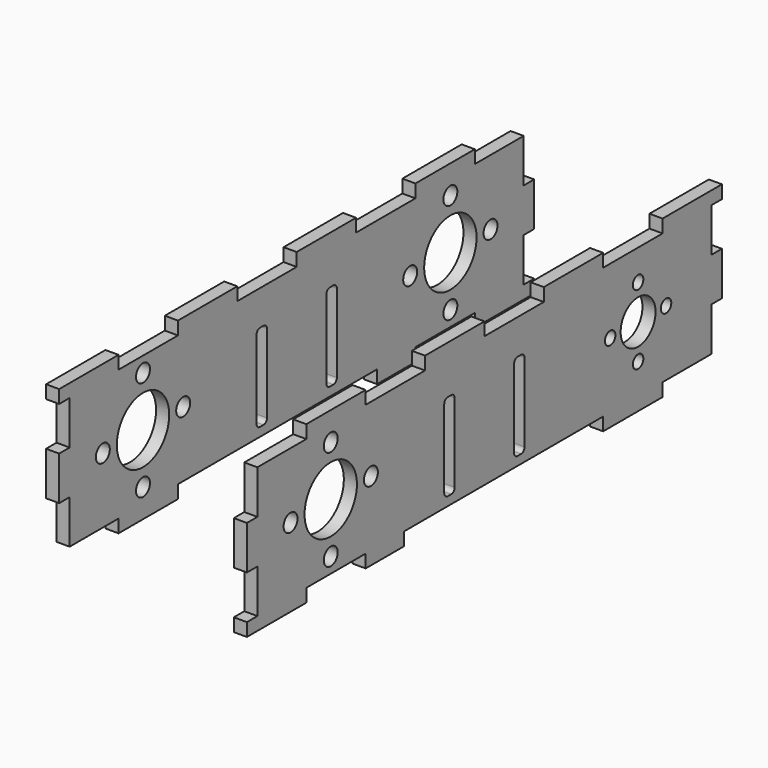
from build123d import *

# Parameters (mm, degrees)
RECTANGLE177_W           = 3
RECTANGLE177_H           = 10
EXTRUDE230_DEPTH         = 3
EXTRUDE233_DEPTH         = 3
EXTRUDE232_DEPTH         = 3
EXTRUDE231_DEPTH         = 3
RECTANGLE170_W           = 17
RECTANGLE170_H           = 3
EXTRUDE223_DEPTH         = 3
RECTANGLE171_W           = 17
RECTANGLE171_H           = 3
EXTRUDE224_DEPTH         = 3
RECTANGLE172_W           = 17
RECTANGLE172_H           = 3
EXTRUDE225_DEPTH         = 3
RECTANGLE169_W           = 17
RECTANGLE169_H           = 3
EXTRUDE222_DEPTH         = 3
RECTANGLE174_W           = 17
RECTANGLE174_H           = 3
EXTRUDE227_DEPTH         = 3
RECTANGLE175_W           = 17
RECTANGLE175_H           = 3
EXTRUDE228_DEPTH         = 3
RECTANGLE176_W           = 17
RECTANGLE176_H           = 3
EXTRUDE229_DEPTH         = 3
RECTANGLE173_W           = 17
RECTANGLE173_H           = 3
EXTRUDE226_DEPTH         = 3
BOX050_W                 = 48
BOX050_H                 = 45
BOX050_DEPTH             = 3
BOX051_W                 = 48
BOX051_H                 = 45
BOX051_DEPTH             = 3
RECTANGLE166_W           = 17
RECTANGLE166_H           = 3
EXTRUDE219_DEPTH         = 3
RECTANGLE167_W           = 17
RECTANGLE167_H           = 3
EXTRUDE220_DEPTH         = 3
RECTANGLE168_W           = 17
RECTANGLE168_H           = 3
EXTRUDE221_DEPTH         = 3
RECTANGLE165_W           = 17
RECTANGLE165_H           = 3
EXTRUDE218_DEPTH         = 3
RECTANGLE162_W           = 17
RECTANGLE162_H           = 3
EXTRUDE215_DEPTH         = 3
RECTANGLE163_W           = 17
RECTANGLE163_H           = 3
EXTRUDE216_DEPTH         = 3
RECTANGLE164_W           = 17
RECTANGLE164_H           = 3
EXTRUDE217_DEPTH         = 3
RECTANGLE161_W           = 17
RECTANGLE161_H           = 3
EXTRUDE214_DEPTH         = 3
CYLINDER151_R            = 7.5
CYLINDER151_DEPTH        = 25
CYLINDER151_PITCH_ANGLE  = 90
CYLINDER149_R            = 7.5
CYLINDER149_DEPTH        = 25
CYLINDER149_PITCH_ANGLE  = 90
CYLINDER150_R            = 7.5
CYLINDER150_DEPTH        = 25
CYLINDER150_PITCH_ANGLE  = 90
CYLINDER152_R            = 5
CYLINDER152_DEPTH        = 25
CYLINDER152_PITCH_ANGLE  = 90
CYLINDER143_R            = 2
CYLINDER143_DEPTH        = 10
CYLINDER143_PITCH_ANGLE  = 90
CYLINDER141_R            = 2
CYLINDER141_DEPTH        = 10
CYLINDER141_PITCH_ANGLE  = 90
CYLINDER142_R            = 2
CYLINDER142_DEPTH        = 10
CYLINDER142_PITCH_ANGLE  = 90
CYLINDER144_R            = 2
CYLINDER144_DEPTH        = 10
CYLINDER144_PITCH_ANGLE  = 90
CYLINDER135_R            = 2
CYLINDER135_DEPTH        = 10
CYLINDER135_PITCH_ANGLE  = 90
CYLINDER133_R            = 2
CYLINDER133_DEPTH        = 10
CYLINDER133_PITCH_ANGLE  = 90
CYLINDER134_R            = 2
CYLINDER134_DEPTH        = 10
CYLINDER134_PITCH_ANGLE  = 90
CYLINDER136_R            = 2
CYLINDER136_DEPTH        = 10
CYLINDER136_PITCH_ANGLE  = 90
CYLINDER139_R            = 2
CYLINDER139_DEPTH        = 10
CYLINDER139_PITCH_ANGLE  = 90
CYLINDER137_R            = 2
CYLINDER137_DEPTH        = 10
CYLINDER137_PITCH_ANGLE  = 90
CYLINDER138_R            = 2
CYLINDER138_DEPTH        = 10
CYLINDER138_PITCH_ANGLE  = 90
CYLINDER140_R            = 2
CYLINDER140_DEPTH        = 10
CYLINDER140_PITCH_ANGLE  = 90
CYLINDER145_R            = 1.5
CYLINDER145_DEPTH        = 10
CYLINDER145_PITCH_ANGLE  = 90
CYLINDER146_R            = 1.5
CYLINDER146_DEPTH        = 10
CYLINDER146_PITCH_ANGLE  = 90
CYLINDER147_R            = 1.5
CYLINDER147_DEPTH        = 10
CYLINDER147_PITCH_ANGLE  = 90
CYLINDER148_R            = 1.5
CYLINDER148_DEPTH        = 10
CYLINDER148_PITCH_ANGLE  = 90
BOX004_W                 = 3
BOX004_H                 = 3
BOX004_DEPTH             = 20
FILLET_R                 = 1
BOX005_W                 = 3
BOX005_H                 = 3
BOX005_DEPTH             = 20
FILLET001_R              = 1
BOX003_W                 = 130
BOX003_H                 = 3
BOX003_DEPTH             = 30
CUT007_PLACEMENT_ANGLE   = 90
ARRAY017_COUNT           = 2
ARRAY017_PLACEMENT_ANGLE = 180


with BuildPart() as extrude230:
    # Rectangle177 → Extrude230 (new body)
    with BuildSketch(Plane(origin=(24, -68, 75), x_dir=(0, -1, 0), z_dir=(1, 0, 0))):
        with Locations((-1.5, 5)):
            Rectangle(RECTANGLE177_W, RECTANGLE177_H)
    extrude(amount=-EXTRUDE230_DEPTH)


with BuildPart() as extrude230_1:
    # Extrude230 placement: moved
    add(extrude230.part.moved(Location((-1, 0, 0))))


with BuildPart() as extrude233:
    # Rectangle177 → Extrude233 (new body)
    with BuildSketch(Plane(origin=(24, -68, 75), x_dir=(0, -1, 0), z_dir=(1, 0, 0))):
        with Locations((-1.5, 5)):
            Rectangle(RECTANGLE177_W, RECTANGLE177_H)
    extrude(amount=-EXTRUDE233_DEPTH)


with BuildPart() as extrude233_1:
    # Extrude233 placement: moved
    add(extrude233.part.moved(Location((-44, 133, 0))))


with BuildPart() as extrude232:
    # Rectangle177 → Extrude232 (new body)
    with BuildSketch(Plane(origin=(24, -68, 75), x_dir=(0, -1, 0), z_dir=(1, 0, 0))):
        with Locations((-1.5, 5)):
            Rectangle(RECTANGLE177_W, RECTANGLE177_H)
    extrude(amount=-EXTRUDE232_DEPTH)


with BuildPart() as extrude232_1:
    # Extrude232 placement: moved
    add(extrude232.part.moved(Location((-1, 133, 0))))


with BuildPart() as extrude231:
    # Rectangle177 → Extrude231 (new body)
    with BuildSketch(Plane(origin=(24, -68, 75), x_dir=(0, -1, 0), z_dir=(1, 0, 0))):
        with Locations((-1.5, 5)):
            Rectangle(RECTANGLE177_W, RECTANGLE177_H)
    extrude(amount=-EXTRUDE231_DEPTH)


with BuildPart() as extrude231_1:
    # Extrude231 placement: moved
    add(extrude231.part.moved(Location((-44, 0, 0))))


with BuildPart() as extrude223:
    # Rectangle170 → Extrude223 (new body)
    with BuildSketch(Plane(origin=(24, -34, 88), x_dir=(0, -1, 0), z_dir=(1, 0, 0))):
        with Locations((-8.5, 1.5)):
            Rectangle(RECTANGLE170_W, RECTANGLE170_H)
    extrude(amount=-EXTRUDE223_DEPTH)


with BuildPart() as extrude224:
    # Rectangle171 → Extrude224 (new body)
    with BuildSketch(Plane(origin=(24, 0, 88), x_dir=(0, -1, 0), z_dir=(1, 0, 0))):
        with Locations((-8.5, 1.5)):
            Rectangle(RECTANGLE171_W, RECTANGLE171_H)
    extrude(amount=-EXTRUDE224_DEPTH)


with BuildPart() as extrude225:
    # Rectangle172 → Extrude225 (new body)
    with BuildSketch(Plane(origin=(24, 34, 88), x_dir=(0, -1, 0), z_dir=(1, 0, 0))):
        with Locations((-8.5, 1.5)):
            Rectangle(RECTANGLE172_W, RECTANGLE172_H)
    extrude(amount=-EXTRUDE225_DEPTH)


with BuildPart() as finger_joints_a_front004:
    # Rectangle169 → Extrude222 (new body)
    with BuildSketch(Plane(origin=(24, -68, 88), x_dir=(0, -1, 0), z_dir=(1, 0, 0))):
        with Locations((-8.5, 1.5)):
            Rectangle(RECTANGLE169_W, RECTANGLE169_H)
    extrude(amount=-EXTRUDE222_DEPTH)

    # Fusion064067015: union Extrude223, Extrude224, Extrude225
    add(extrude223.part)
    add(extrude224.part)
    add(extrude225.part)


with BuildPart() as finger_joints_a_front004_1:
    # Fusion064067015 placement: moved
    add(finger_joints_a_front004.part.moved(Location((-1, 0, 0))))


with BuildPart() as extrude227:
    # Rectangle174 → Extrude227 (new body)
    with BuildSketch(Plane(origin=(24, -17, 88), x_dir=(0, -1, 0), z_dir=(1, 0, 0))):
        with Locations((-8.5, 1.5)):
            Rectangle(RECTANGLE174_W, RECTANGLE174_H)
    extrude(amount=-EXTRUDE227_DEPTH)


with BuildPart() as extrude228:
    # Rectangle175 → Extrude228 (new body)
    with BuildSketch(Plane(origin=(24, 17, 88), x_dir=(0, -1, 0), z_dir=(1, 0, 0))):
        with Locations((-8.5, 1.5)):
            Rectangle(RECTANGLE175_W, RECTANGLE175_H)
    extrude(amount=-EXTRUDE228_DEPTH)


with BuildPart() as extrude229:
    # Rectangle176 → Extrude229 (new body)
    with BuildSketch(Plane(origin=(24, 51, 88), x_dir=(0, -1, 0), z_dir=(1, 0, 0))):
        with Locations((-8.5, 1.5)):
            Rectangle(RECTANGLE176_W, RECTANGLE176_H)
    extrude(amount=-EXTRUDE229_DEPTH)


with BuildPart() as finger_joints_b004:
    # Rectangle173 → Extrude226 (new body)
    with BuildSketch(Plane(origin=(24, -51, 88), x_dir=(0, -1, 0), z_dir=(1, 0, 0))):
        with Locations((-8.5, 1.5)):
            Rectangle(RECTANGLE173_W, RECTANGLE173_H)
    extrude(amount=-EXTRUDE226_DEPTH)

    # Fusion064067016: union Extrude227, Extrude228, Extrude229
    add(extrude227.part)
    add(extrude228.part)
    add(extrude229.part)


with BuildPart() as finger_joints_b004_1:
    # Fusion064067016 placement: moved
    add(finger_joints_b004.part.moved(Location((-44, 0, 0))))

    # Fusion064067017: union Finger joints A front004
    add(finger_joints_a_front004_1.part)


with BuildPart() as finger_joints_b004_2:
    # Fusion064067017 placement: moved
    add(finger_joints_b004_1.part.moved(Location((0, 0, -33))))


with BuildPart() as obj1:
    # Box050 → Box050 (new body)
    with BuildSketch(Plane(origin=(-24, -68, 52), x_dir=(1, 0, 0), z_dir=(0, 0, 1))):
        with Locations((24, 22.5)):
            Rectangle(BOX050_W, BOX050_H)
    extrude(amount=BOX050_DEPTH)


with BuildPart() as common002:
    # Box051 → Box051 (new body)
    with BuildSketch(Plane(origin=(-24, 23, 52), x_dir=(1, 0, 0), z_dir=(0, 0, 1))):
        with Locations((24, 22.5)):
            Rectangle(BOX051_W, BOX051_H)
    extrude(amount=BOX051_DEPTH)

    # Fusion064067018: union obj1
    add(obj1.part)

    # Common002: intersect Finger joints B004
    add(finger_joints_b004_2.part, mode=Mode.INTERSECT)


with BuildPart() as extrude219:
    # Rectangle166 → Extrude219 (new body)
    with BuildSketch(Plane(origin=(24, -34, 88), x_dir=(0, -1, 0), z_dir=(1, 0, 0))):
        with Locations((-8.5, 1.5)):
            Rectangle(RECTANGLE166_W, RECTANGLE166_H)
    extrude(amount=-EXTRUDE219_DEPTH)


with BuildPart() as extrude220:
    # Rectangle167 → Extrude220 (new body)
    with BuildSketch(Plane(origin=(24, 0, 88), x_dir=(0, -1, 0), z_dir=(1, 0, 0))):
        with Locations((-8.5, 1.5)):
            Rectangle(RECTANGLE167_W, RECTANGLE167_H)
    extrude(amount=-EXTRUDE220_DEPTH)


with BuildPart() as extrude221:
    # Rectangle168 → Extrude221 (new body)
    with BuildSketch(Plane(origin=(24, 34, 88), x_dir=(0, -1, 0), z_dir=(1, 0, 0))):
        with Locations((-8.5, 1.5)):
            Rectangle(RECTANGLE168_W, RECTANGLE168_H)
    extrude(amount=-EXTRUDE221_DEPTH)


with BuildPart() as finger_joints_a_rear002:
    # Rectangle165 → Extrude218 (new body)
    with BuildSketch(Plane(origin=(24, -68, 88), x_dir=(0, -1, 0), z_dir=(1, 0, 0))):
        with Locations((-8.5, 1.5)):
            Rectangle(RECTANGLE165_W, RECTANGLE165_H)
    extrude(amount=-EXTRUDE218_DEPTH)

    # Fusion064067012: union Extrude219, Extrude220, Extrude221
    add(extrude219.part)
    add(extrude220.part)
    add(extrude221.part)


with BuildPart() as finger_joints_a_rear002_1:
    # Fusion064067012 placement: moved
    add(finger_joints_a_rear002.part.moved(Location((-44, 0, 0))))


with BuildPart() as extrude215:
    # Rectangle162 → Extrude215 (new body)
    with BuildSketch(Plane(origin=(24, -17, 88), x_dir=(0, -1, 0), z_dir=(1, 0, 0))):
        with Locations((-8.5, 1.5)):
            Rectangle(RECTANGLE162_W, RECTANGLE162_H)
    extrude(amount=-EXTRUDE215_DEPTH)


with BuildPart() as extrude216:
    # Rectangle163 → Extrude216 (new body)
    with BuildSketch(Plane(origin=(24, 17, 88), x_dir=(0, -1, 0), z_dir=(1, 0, 0))):
        with Locations((-8.5, 1.5)):
            Rectangle(RECTANGLE163_W, RECTANGLE163_H)
    extrude(amount=-EXTRUDE216_DEPTH)


with BuildPart() as extrude217:
    # Rectangle164 → Extrude217 (new body)
    with BuildSketch(Plane(origin=(24, 51, 88), x_dir=(0, -1, 0), z_dir=(1, 0, 0))):
        with Locations((-8.5, 1.5)):
            Rectangle(RECTANGLE164_W, RECTANGLE164_H)
    extrude(amount=-EXTRUDE217_DEPTH)


with BuildPart() as finger_joints_a002:
    # Rectangle161 → Extrude214 (new body)
    with BuildSketch(Plane(origin=(24, -51, 88), x_dir=(0, -1, 0), z_dir=(1, 0, 0))):
        with Locations((-8.5, 1.5)):
            Rectangle(RECTANGLE161_W, RECTANGLE161_H)
    extrude(amount=-EXTRUDE214_DEPTH)

    # Fusion064067011: union Extrude215, Extrude216, Extrude217
    add(extrude215.part)
    add(extrude216.part)
    add(extrude217.part)


with BuildPart() as finger_joints_a002_1:
    # Fusion064067011 placement: moved
    add(finger_joints_a002.part.moved(Location((-1, 0, 0))))

    # Fusion064067013: union Finger joints A Rear002
    add(finger_joints_a_rear002_1.part)


with BuildPart() as borehole005:
    # Cylinder151 → Cylinder151 (new body)
    with BuildSketch(Plane.XY):
        Circle(CYLINDER151_R)
    extrude(amount=CYLINDER151_DEPTH)


with BuildPart() as borehole005_1:
    # Cylinder151 pitch: moved
    add(borehole005.part.rotate(Axis((0, 0, 0), (0, 1, 0)), CYLINDER151_PITCH_ANGLE))


with BuildPart() as borehole005_2:
    # Cylinder151 placement: moved
    add(borehole005_1.part.moved(Location((10, -44, 70))))


with BuildPart() as borehole003:
    # Cylinder149 → Cylinder149 (new body)
    with BuildSketch(Plane.XY):
        Circle(CYLINDER149_R)
    extrude(amount=CYLINDER149_DEPTH)


with BuildPart() as borehole003_1:
    # Cylinder149 pitch: moved
    add(borehole003.part.rotate(Axis((0, 0, 0), (0, 1, 0)), CYLINDER149_PITCH_ANGLE))


with BuildPart() as borehole003_2:
    # Cylinder149 placement: moved
    add(borehole003_1.part.moved(Location((-36.0062, 44, 70))))


with BuildPart() as boreholes_for_linear_bearings001:
    # Cylinder150 → Cylinder150 (new body)
    with BuildSketch(Plane.XY):
        Circle(CYLINDER150_R)
    extrude(amount=CYLINDER150_DEPTH)


with BuildPart() as boreholes_for_linear_bearings001_1:
    # Cylinder150 pitch: moved
    add(boreholes_for_linear_bearings001.part.rotate(Axis((0, 0, 0), (0, 1, 0)), CYLINDER150_PITCH_ANGLE))


with BuildPart() as boreholes_for_linear_bearings001_2:
    # Cylinder150 placement: moved
    add(boreholes_for_linear_bearings001_1.part.moved(Location((-36.0062, -44, 70))))

    # Fusion064067009: union Borehole005, Borehole003
    add(borehole005_2.part)
    add(borehole003_2.part)


with BuildPart() as boreholes_for_bearings001:
    # Cylinder152 → Cylinder152 (new body)
    with BuildSketch(Plane.XY):
        Circle(CYLINDER152_R)
    extrude(amount=CYLINDER152_DEPTH)


with BuildPart() as boreholes_for_bearings001_1:
    # Cylinder152 pitch: moved
    add(boreholes_for_bearings001.part.rotate(Axis((0, 0, 0), (0, 1, 0)), CYLINDER152_PITCH_ANGLE))


with BuildPart() as boreholes_for_bearings001_2:
    # Cylinder152 placement: moved
    add(boreholes_for_bearings001_1.part.moved(Location((10, 44, 70))))

    # Fusion064067010: union Boreholes for linear bearings001
    add(boreholes_for_linear_bearings001_2.part)


with BuildPart() as cylinder185:
    # Cylinder143 → Cylinder143 (new body)
    with BuildSketch(Plane.XY):
        Circle(CYLINDER143_R)
    extrude(amount=CYLINDER143_DEPTH)


with BuildPart() as cylinder185_1:
    # Cylinder143 pitch: moved
    add(cylinder185.part.rotate(Axis((0, 0, 0), (0, 1, 0)), CYLINDER143_PITCH_ANGLE))


with BuildPart() as cylinder185_2:
    # Cylinder143 placement: moved
    add(cylinder185_1.part.moved(Location((-29, -55.5, 70))))


with BuildPart() as cylinder183:
    # Cylinder141 → Cylinder141 (new body)
    with BuildSketch(Plane.XY):
        Circle(CYLINDER141_R)
    extrude(amount=CYLINDER141_DEPTH)


with BuildPart() as cylinder183_1:
    # Cylinder141 pitch: moved
    add(cylinder183.part.rotate(Axis((0, 0, 0), (0, 1, 0)), CYLINDER141_PITCH_ANGLE))


with BuildPart() as cylinder183_2:
    # Cylinder141 placement: moved
    add(cylinder183_1.part.moved(Location((-29, -44, 81.5))))


with BuildPart() as cylinder184:
    # Cylinder142 → Cylinder142 (new body)
    with BuildSketch(Plane.XY):
        Circle(CYLINDER142_R)
    extrude(amount=CYLINDER142_DEPTH)


with BuildPart() as cylinder184_1:
    # Cylinder142 pitch: moved
    add(cylinder184.part.rotate(Axis((0, 0, 0), (0, 1, 0)), CYLINDER142_PITCH_ANGLE))


with BuildPart() as cylinder184_2:
    # Cylinder142 placement: moved
    add(cylinder184_1.part.moved(Location((-29, -44, 58.5))))


with BuildPart() as screw_holes007:
    # Cylinder144 → Cylinder144 (new body)
    with BuildSketch(Plane.XY):
        Circle(CYLINDER144_R)
    extrude(amount=CYLINDER144_DEPTH)


with BuildPart() as screw_holes007_1:
    # Cylinder144 pitch: moved
    add(screw_holes007.part.rotate(Axis((0, 0, 0), (0, 1, 0)), CYLINDER144_PITCH_ANGLE))


with BuildPart() as screw_holes007_2:
    # Cylinder144 placement: moved
    add(screw_holes007_1.part.moved(Location((-29, -32.5, 70))))

    # Fusion064067005: union Cylinder185, Cylinder183, Cylinder184
    add(cylinder185_2.part)
    add(cylinder183_2.part)
    add(cylinder184_2.part)


with BuildPart() as screw_holes007_3:
    # Fusion064067005 placement: moved
    add(screw_holes007_2.part.moved(Location((49, 0, 0))))


with BuildPart() as cylinder177:
    # Cylinder135 → Cylinder135 (new body)
    with BuildSketch(Plane.XY):
        Circle(CYLINDER135_R)
    extrude(amount=CYLINDER135_DEPTH)


with BuildPart() as cylinder177_1:
    # Cylinder135 pitch: moved
    add(cylinder177.part.rotate(Axis((0, 0, 0), (0, 1, 0)), CYLINDER135_PITCH_ANGLE))


with BuildPart() as cylinder177_2:
    # Cylinder135 placement: moved
    add(cylinder177_1.part.moved(Location((-29, -55.5, 70))))


with BuildPart() as cylinder175:
    # Cylinder133 → Cylinder133 (new body)
    with BuildSketch(Plane.XY):
        Circle(CYLINDER133_R)
    extrude(amount=CYLINDER133_DEPTH)


with BuildPart() as cylinder175_1:
    # Cylinder133 pitch: moved
    add(cylinder175.part.rotate(Axis((0, 0, 0), (0, 1, 0)), CYLINDER133_PITCH_ANGLE))


with BuildPart() as cylinder175_2:
    # Cylinder133 placement: moved
    add(cylinder175_1.part.moved(Location((-29, -44, 81.5))))


with BuildPart() as cylinder176:
    # Cylinder134 → Cylinder134 (new body)
    with BuildSketch(Plane.XY):
        Circle(CYLINDER134_R)
    extrude(amount=CYLINDER134_DEPTH)


with BuildPart() as cylinder176_1:
    # Cylinder134 pitch: moved
    add(cylinder176.part.rotate(Axis((0, 0, 0), (0, 1, 0)), CYLINDER134_PITCH_ANGLE))


with BuildPart() as cylinder176_2:
    # Cylinder134 placement: moved
    add(cylinder176_1.part.moved(Location((-29, -44, 58.5))))


with BuildPart() as screw_holes005:
    # Cylinder136 → Cylinder136 (new body)
    with BuildSketch(Plane.XY):
        Circle(CYLINDER136_R)
    extrude(amount=CYLINDER136_DEPTH)


with BuildPart() as screw_holes005_1:
    # Cylinder136 pitch: moved
    add(screw_holes005.part.rotate(Axis((0, 0, 0), (0, 1, 0)), CYLINDER136_PITCH_ANGLE))


with BuildPart() as screw_holes005_2:
    # Cylinder136 placement: moved
    add(screw_holes005_1.part.moved(Location((-29, -32.5, 70))))

    # Fusion064067003: union Cylinder177, Cylinder175, Cylinder176
    add(cylinder177_2.part)
    add(cylinder175_2.part)
    add(cylinder176_2.part)


with BuildPart() as cylinder181:
    # Cylinder139 → Cylinder139 (new body)
    with BuildSketch(Plane.XY):
        Circle(CYLINDER139_R)
    extrude(amount=CYLINDER139_DEPTH)


with BuildPart() as cylinder181_1:
    # Cylinder139 pitch: moved
    add(cylinder181.part.rotate(Axis((0, 0, 0), (0, 1, 0)), CYLINDER139_PITCH_ANGLE))


with BuildPart() as cylinder181_2:
    # Cylinder139 placement: moved
    add(cylinder181_1.part.moved(Location((-29, -55.5, 70))))


with BuildPart() as cylinder179:
    # Cylinder137 → Cylinder137 (new body)
    with BuildSketch(Plane.XY):
        Circle(CYLINDER137_R)
    extrude(amount=CYLINDER137_DEPTH)


with BuildPart() as cylinder179_1:
    # Cylinder137 pitch: moved
    add(cylinder179.part.rotate(Axis((0, 0, 0), (0, 1, 0)), CYLINDER137_PITCH_ANGLE))


with BuildPart() as cylinder179_2:
    # Cylinder137 placement: moved
    add(cylinder179_1.part.moved(Location((-29, -44, 81.5))))


with BuildPart() as cylinder180:
    # Cylinder138 → Cylinder138 (new body)
    with BuildSketch(Plane.XY):
        Circle(CYLINDER138_R)
    extrude(amount=CYLINDER138_DEPTH)


with BuildPart() as cylinder180_1:
    # Cylinder138 pitch: moved
    add(cylinder180.part.rotate(Axis((0, 0, 0), (0, 1, 0)), CYLINDER138_PITCH_ANGLE))


with BuildPart() as cylinder180_2:
    # Cylinder138 placement: moved
    add(cylinder180_1.part.moved(Location((-29, -44, 58.5))))


with BuildPart() as screw_holes_for_linear_bearings001:
    # Cylinder140 → Cylinder140 (new body)
    with BuildSketch(Plane.XY):
        Circle(CYLINDER140_R)
    extrude(amount=CYLINDER140_DEPTH)


with BuildPart() as screw_holes_for_linear_bearings001_1:
    # Cylinder140 pitch: moved
    add(screw_holes_for_linear_bearings001.part.rotate(Axis((0, 0, 0), (0, 1, 0)), CYLINDER140_PITCH_ANGLE))


with BuildPart() as screw_holes_for_linear_bearings001_2:
    # Cylinder140 placement: moved
    add(screw_holes_for_linear_bearings001_1.part.moved(Location((-29, -32.5, 70))))

    # Fusion064067004: union Cylinder181, Cylinder179, Cylinder180
    add(cylinder181_2.part)
    add(cylinder179_2.part)
    add(cylinder180_2.part)


with BuildPart() as screw_holes_for_linear_bearings001_3:
    # Fusion064067004 placement: moved
    add(screw_holes_for_linear_bearings001_2.part.moved(Location((0, 88, 0))))

    # Fusion064067006: union Screw holes007, Screw holes005
    add(screw_holes007_3.part)
    add(screw_holes005_2.part)


with BuildPart() as cylinder187:
    # Cylinder145 → Cylinder145 (new body)
    with BuildSketch(Plane.XY):
        Circle(CYLINDER145_R)
    extrude(amount=CYLINDER145_DEPTH)


with BuildPart() as cylinder187_1:
    # Cylinder145 pitch: moved
    add(cylinder187.part.rotate(Axis((0, 0, 0), (0, 1, 0)), CYLINDER145_PITCH_ANGLE))


with BuildPart() as cylinder187_2:
    # Cylinder145 placement: moved
    add(cylinder187_1.part.moved(Location((18, 44, 62))))


with BuildPart() as cylinder188:
    # Cylinder146 → Cylinder146 (new body)
    with BuildSketch(Plane.XY):
        Circle(CYLINDER146_R)
    extrude(amount=CYLINDER146_DEPTH)


with BuildPart() as cylinder188_1:
    # Cylinder146 pitch: moved
    add(cylinder188.part.rotate(Axis((0, 0, 0), (0, 1, 0)), CYLINDER146_PITCH_ANGLE))


with BuildPart() as cylinder188_2:
    # Cylinder146 placement: moved
    add(cylinder188_1.part.moved(Location((18, 44, 78))))


with BuildPart() as cylinder189:
    # Cylinder147 → Cylinder147 (new body)
    with BuildSketch(Plane.XY):
        Circle(CYLINDER147_R)
    extrude(amount=CYLINDER147_DEPTH)


with BuildPart() as cylinder189_1:
    # Cylinder147 pitch: moved
    add(cylinder189.part.rotate(Axis((0, 0, 0), (0, 1, 0)), CYLINDER147_PITCH_ANGLE))


with BuildPart() as cylinder189_2:
    # Cylinder147 placement: moved
    add(cylinder189_1.part.moved(Location((18, 52, 70))))


with BuildPart() as obj2:
    # Cylinder148 → Cylinder148 (new body)
    with BuildSketch(Plane.XY):
        Circle(CYLINDER148_R)
    extrude(amount=CYLINDER148_DEPTH)


with BuildPart() as obj2_1:
    # Cylinder148 pitch: moved
    add(obj2.part.rotate(Axis((0, 0, 0), (0, 1, 0)), CYLINDER148_PITCH_ANGLE))


with BuildPart() as obj2_2:
    # Cylinder148 placement: moved
    add(obj2_1.part.moved(Location((18, 36, 70))))

    # Fusion064067007: union Cylinder187, Cylinder188, Cylinder189
    add(cylinder187_2.part)
    add(cylinder188_2.part)
    add(cylinder189_2.part)

    # Fusion064067008: union screw holes for linear bearings001
    add(screw_holes_for_linear_bearings001_3.part)


with BuildPart() as screw_slide:
    # Box004 → Box004 (new body)
    with BuildSketch(Plane(origin=(7, 21, 57), x_dir=(1, 0, 0), z_dir=(0, 0, 1))):
        with Locations((1.5, 1.5)):
            Rectangle(BOX004_W, BOX004_H)
    extrude(amount=BOX004_DEPTH)

    # Fillet
    fillet_edges = [screw_slide.edges().sort_by_distance(p)[0] for p in [
        (7, 22.5, 77),
        (7, 22.5, 57),
        (10, 22.5, 77),
        (10, 22.5, 57),
    ]]
    fillet(fillet_edges, radius=FILLET_R)


with BuildPart() as screw_slide_1:
    # Fillet placement: moved
    add(screw_slide.part.moved(Location((1.5, 0, 0))))


with BuildPart() as screw_holes001:
    # Box005 → Box005 (new body)
    with BuildSketch(Plane(origin=(7, 21, 57), x_dir=(1, 0, 0), z_dir=(0, 0, 1))):
        with Locations((1.5, 1.5)):
            Rectangle(BOX005_W, BOX005_H)
    extrude(amount=BOX005_DEPTH)

    # Fillet001
    fillet001_edges = [screw_holes001.edges().sort_by_distance(p)[0] for p in [
        (7, 22.5, 77),
        (7, 22.5, 57),
        (10, 22.5, 77),
        (10, 22.5, 57),
    ]]
    fillet(fillet001_edges, radius=FILLET001_R)


with BuildPart() as screw_holes001_1:
    # Fillet001 placement: moved
    add(screw_holes001.part.moved(Location((-18.5, 0, 0))))

    # Fusion008: union Screw slide
    add(screw_slide_1.part)


with BuildPart() as fusion064067020:
    # Box003 → Box003 (new body)
    with BuildSketch(Plane(origin=(-65, 21, 55), x_dir=(1, 0, 0), z_dir=(0, 0, 1))):
        with Locations((65, 1.5)):
            Rectangle(BOX003_W, BOX003_H)
    extrude(amount=BOX003_DEPTH)

    # Cut007: cut Screw holes001
    add(screw_holes001_1.part, mode=Mode.SUBTRACT)


with BuildPart() as fusion064067020_1:
    # Cut007 placement: moved
    add(fusion064067020.part.moved(Location((1, 0, 0))).rotate(Axis((1, 0, 0), (0, 0, 1)), CUT007_PLACEMENT_ANGLE))

    # Array017: Fusion064067020 ×2 about axis
    array017_axis = Axis((0, 0, 0), (0, 0, 1))


with BuildPart() as fusion064067020_2:
    add(fusion064067020_1.part)
    for i in range(1, ARRAY017_COUNT):
        add(fusion064067020_1.part.rotate(array017_axis, i * 360 / ARRAY017_COUNT))


with BuildPart() as fusion064067020_3:
    # Array017 placement: moved
    add(fusion064067020_2.part.rotate(Axis((0, 0, 0), (0, 0, 1)), ARRAY017_PLACEMENT_ANGLE))

    # Cut035056004: cut obj2
    add(obj2_2.part, mode=Mode.SUBTRACT)

    # Cut035056005: cut Boreholes for bearings001
    add(boreholes_for_bearings001_2.part, mode=Mode.SUBTRACT)

    # Fusion064067014: union Finger joints A002
    add(finger_joints_a002_1.part)

    # Fusion064067019: union Common002
    add(common002.part)

    # Fusion064067020: union Extrude230, Extrude233, Extrude232, Extrude231
    add(extrude230_1.part)
    add(extrude233_1.part)
    add(extrude232_1.part)
    add(extrude231_1.part)


solid = fusion064067020_3.part
